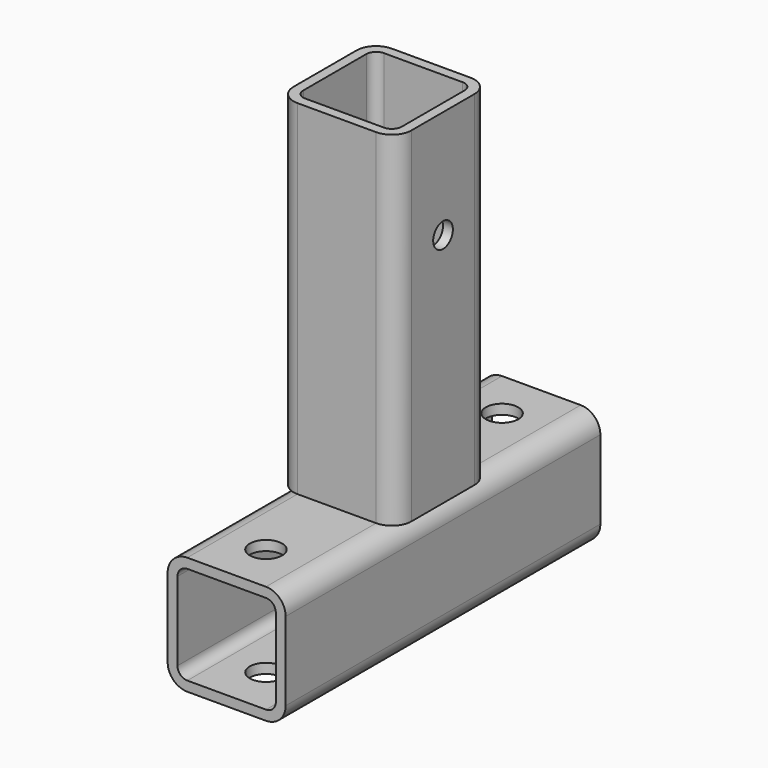
from build123d import *

# Parameters (mm, degrees)
F1_DEPTH = 87.5
F3_DEPTH = 100
F4_R     = 8.25
F5_DEPTH = 60.001
F6_R     = 6.25
F7_DEPTH = 60.001


with BuildPart() as f1:
    # F0 (on Top) → F1 (new body, symmetric)
    with BuildSketch(Plane.XY):
        with BuildLine():
            Line((20, 30), (-20, 30))
            ThreePointArc((-20, 30), (-27.071068, 27.071068), (-30, 20))
            Line((-30, 20), (-30, -20))
            ThreePointArc((-30, -20), (-27.071068, -27.071068), (-20, -30))
            Line((-20, -30), (20, -30))
            ThreePointArc((20, -30), (27.071068, -27.071068), (30, -20))
            Line((30, -20), (30, 20))
            ThreePointArc((30, 20), (27.071068, 27.071068), (20, 30))
        make_face()
        with BuildLine():
            ThreePointArc((-25, 20), (-23.535534, 23.535534), (-20, 25))
            Line((-20, 25), (20, 25))
            ThreePointArc((20, 25), (23.535534, 23.535534), (25, 20))
            Line((25, 20), (25, -20))
            ThreePointArc((25, -20), (23.535534, -23.535534), (20, -25))
            Line((20, -25), (-20, -25))
            ThreePointArc((-20, -25), (-23.535534, -23.535534), (-25, -20))
            Line((-25, -20), (-25, 20))
        make_face(mode=Mode.SUBTRACT)
    extrude(amount=F1_DEPTH, both=True)

    # F2 (on Front) → F3 (join, symmetric)
    with BuildSketch(Plane.XZ):
        with BuildLine():
            Line((20, -87.5), (-20, -87.5))
            ThreePointArc((-20, -87.5), (-27.071068, -90.428932), (-30, -97.5))
            Line((-30, -97.5), (-30, -137.5))
            ThreePointArc((-30, -137.5), (-27.071068, -144.571068), (-20, -147.5))
            Line((-20, -147.5), (20, -147.5))
            ThreePointArc((20, -147.5), (27.071068, -144.571068), (30, -137.5))
            Line((30, -137.5), (30, -97.5))
            ThreePointArc((30, -97.5), (27.071068, -90.428932), (20, -87.5))
        make_face()
        with BuildLine():
            ThreePointArc((20, -92.5), (23.535534, -93.964466), (25, -97.5))
            Line((25, -97.5), (25, -137.5))
            ThreePointArc((25, -137.5), (23.535534, -141.035534), (20, -142.5))
            Line((20, -142.5), (-20, -142.5))
            ThreePointArc((-20, -142.5), (-23.535534, -141.035534), (-25, -137.5))
            Line((-25, -137.5), (-25, -97.5))
            ThreePointArc((-25, -97.5), (-23.535534, -93.964466), (-20, -92.5))
            Line((-20, -92.5), (20, -92.5))
        make_face(mode=Mode.SUBTRACT)
    extrude(amount=F3_DEPTH, both=True)

    # F4 (on face) → F5 (cut, through all)
    with BuildSketch(Plane.XY.offset(-87.5)):
        with Locations((0, 75)):
            Circle(F4_R)
        with Locations((0, -75)):
            Circle(F4_R)
    extrude(amount=-F5_DEPTH, mode=Mode.SUBTRACT)

    # F6 (on face) → F7 (cut, through all)
    with BuildSketch(Plane.YZ.offset(30)):
        with Locations((0, 32.5)):
            Circle(F6_R)
    extrude(amount=-F7_DEPTH, mode=Mode.SUBTRACT)


solid = f1.part
